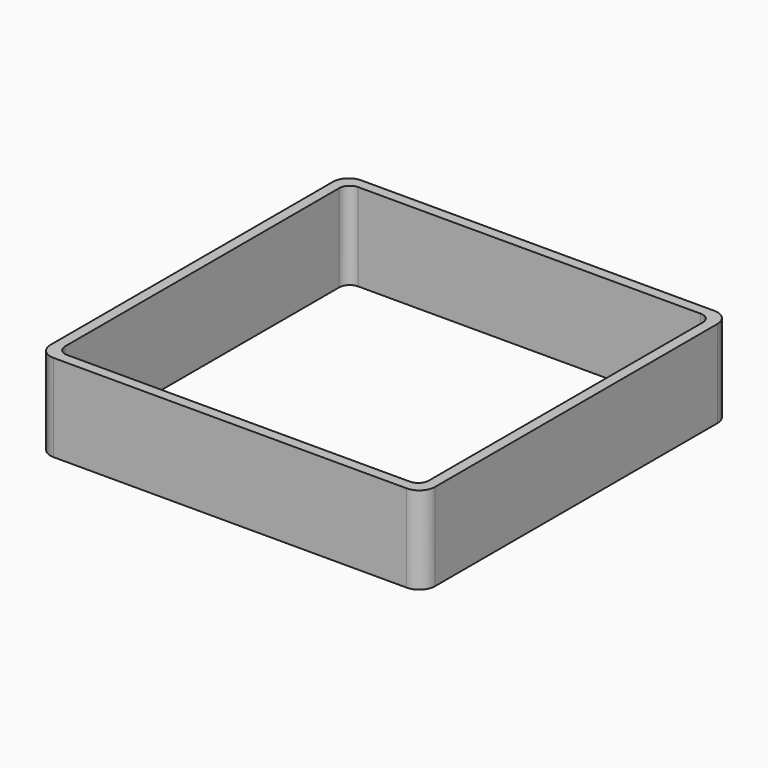
from build123d import *

# Parameters (mm, degrees)
EXTRUDE_DEPTH = 50


with BuildPart() as part:
    # Sketch → Extrude (new body)
    with BuildSketch(Plane.XY):
        with BuildLine():
            Line((-101, 110), (101, 110))
            ThreePointArc((110, 101), (107.363961, 107.363961), (101, 110))
            Line((110, 101), (110, -101))
            ThreePointArc((101, -110), (107.363961, -107.363961), (110, -101))
            Line((101, -110), (-101, -110))
            ThreePointArc((-110, -101), (-107.363961, -107.363961), (-101, -110))
            Line((-110, -101), (-110, 101))
            ThreePointArc((-101, 110), (-107.363961, 107.363961), (-110, 101))
        make_face()
        with BuildLine():
            Line((-98, 104), (98, 104))
            ThreePointArc((104, 98), (102.242641, 102.242641), (98, 104))
            Line((104, 98), (104, -98))
            ThreePointArc((98, -104), (102.242641, -102.242641), (104, -98))
            Line((98, -104), (-98, -104))
            ThreePointArc((-104, -98), (-102.242641, -102.242641), (-98, -104))
            Line((-104, -98), (-104, 98))
            ThreePointArc((-98, 104), (-102.242641, 102.242641), (-104, 98))
        make_face(mode=Mode.SUBTRACT)
    extrude(amount=EXTRUDE_DEPTH)


solid = part.part
